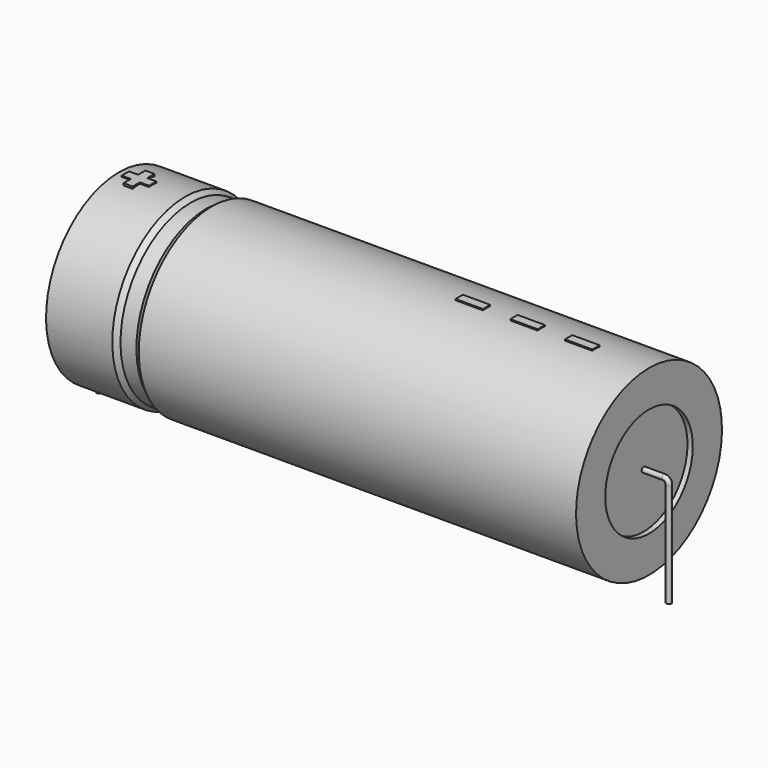
from build123d import *

# Parameters (mm, degrees)
SKETCH_R    = 0.45
SKETCH004_W = 4.8
SKETCH004_H = 1.6
PAD_DEPTH   = 16.16


with BuildPart() as sweep_body:
    # Sweep: sweep along a path in Sketch001
    with BuildLine(Plane.XZ) as sweep_path:
        Line((0, -3), (0, 15.2))
        ThreePointArc((0, 15.2), (0.263601, 15.836393), (0.899993, 16.1))
        Line((0.899993, 16.1), (99.1, 16.1))
        ThreePointArc((99.1, 16.1), (99.736396, 15.836396), (100, 15.2))
        Line((100, 15.2), (100, -3))
    # Sketch → Sweep (sweep)
    with BuildSketch(Plane.XY.offset(-2)):
        Circle(SKETCH_R)
    sweep(path=sweep_path.line)


with BuildPart() as revolution:
    # Sketch002 → Revolution (revolve)
    with BuildSketch(Plane.XZ):
        Polygon((3.5, 32.1), (3.5, 25.7), (96.5, 25.7), (96.5, 32.1), (19.775, 32.1), (18.845, 31.46), (16.055, 31.46), (15.125, 32.1), align=None)
    revolve(axis=Axis((6.97588, 0, 16.1), (1, 0, 0)))


with BuildPart() as revolution001:
    # Sketch003 → Revolution001 (revolve)
    with BuildSketch(Plane.XZ):
        Polygon((4.43, 31.46), (9.08, 31.46), (9.08, 17.7), (90.92, 17.7), (90.92, 31.46), (95.57, 31.46), (95.57, 16.1), (4.43, 16.1), align=None)
    revolve(axis=Axis((6.97588, 0, 16.1), (1, 0, 0)))


with BuildPart() as pad:
    # Sketch004 → Pad (new body)
    with BuildSketch(Plane.XY.offset(16.1)):
        with Locations((84.8, 0)):
            Rectangle(SKETCH004_W, SKETCH004_H)
        with Locations((75.2, 0)):
            Rectangle(SKETCH004_W, SKETCH004_H)
        with Locations((65.6, 0)):
            Rectangle(SKETCH004_W, SKETCH004_H)
        Polygon((6.216, 0.8), (4.616, 0.8), (4.616, -0.8), (6.216, -0.8), (6.216, -2.4), (7.816, -2.4), (7.816, -0.8), (9.416, -0.8), (9.416, 0.8), (7.816, 0.8), (7.816, 2.4), (6.216, 2.4), align=None)
    extrude(amount=PAD_DEPTH)


solid = Compound([sweep_body.part, revolution.part, revolution001.part, pad.part])
